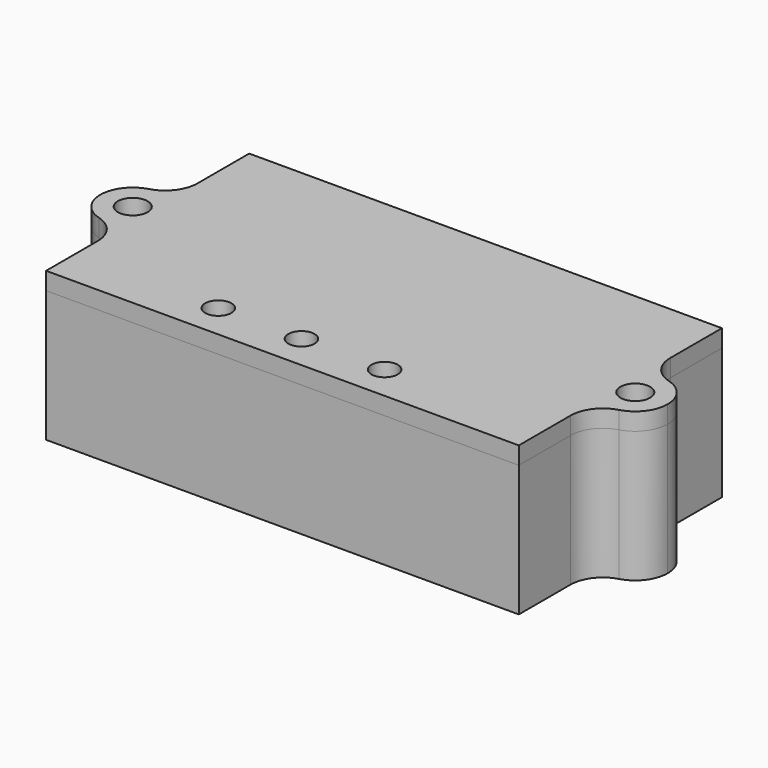
from build123d import *

# Parameters (mm, degrees)
SKETCH001_W                = 25
SKETCH001_H                = 12.5
PAD_DEPTH                  = 2
PAD001_DEPTH               = 15
SKETCH001_MIRRORED_2_W     = 25
SKETCH001_MIRRORED_2_H     = 12.5
PAD_MIRRORED_2_DEPTH       = 2
PAD001_MIRRORED_2_DEPTH    = 15
PAD002_DEPTH               = 2
PAD002_MIRRORED002_2_DEPTH = 2
SKETCH003_R                = 1.5
POCKET_DEPTH               = 5


with BuildPart() as casing:
    # Sketch001 → Pad (new body)
    with BuildSketch(Plane.XY):
        with Locations((12.5, 6.25)):
            Rectangle(SKETCH001_W, SKETCH001_H)
    pad = extrude(amount=PAD_DEPTH)

    # Sketch → Pad001 (join)
    with BuildSketch(Plane.XY):
        with BuildLine():
            Line((0.55, 12.5), (13.589013, 12.5))
            Line((13.589013, 11.5), (13.589013, 12.5))
            Line((14.689013, 11.5), (13.589013, 11.5))
            Line((14.689013, 12.5), (14.689013, 11.5))
            Line((14.689013, 12.5), (25, 12.5))
            Line((25, 12.5), (25, 0))
            Line((27, 0), (25, 0))
            ThreePointArc((30.4, 0), (28.7, 1.7), (27, 0))
            Line((30.4, 0), (32.4, 0))
            ThreePointArc((32.4, 0), (31.648728, 2.23495), (29.699999, 3.562303))
            ThreePointArc((27, 7.124605), (27.751271, 4.889656), (29.699999, 3.562303))
            Line((27, 14.5), (27, 7.124605))
            Line((0, 14.5), (27, 14.5))
            Line((0, 12.5), (0, 14.5))
            Line((0, 11.5), (0, 12.5))
            Line((0, 11.5), (0.55, 11.5))
            Line((0.55, 11.5), (0.55, 12.5))
        make_face()
    pad001 = extrude(amount=PAD001_DEPTH)

    # Sketch001 Mirrored 2 → Pad Mirrored 2 (add)
    with BuildSketch(Plane(origin=(0, 0, 0), x_dir=(-1, 0, 0), z_dir=(0, 0, -1))):
        with Locations((12.5, 6.25)):
            Rectangle(SKETCH001_MIRRORED_2_W, SKETCH001_MIRRORED_2_H)
    pad_mirrored_2 = extrude(amount=-PAD_MIRRORED_2_DEPTH)

    # Sketch Mirrored 2 → Pad001 Mirrored 2 (add)
    with BuildSketch(Plane(origin=(0, 0, 0), x_dir=(-1, 0, 0), z_dir=(0, 0, -1))):
        with BuildLine():
            Line((0.55, 12.5), (13.589013, 12.5))
            Line((13.589013, 11.5), (13.589013, 12.5))
            Line((14.689013, 11.5), (13.589013, 11.5))
            Line((14.689013, 12.5), (14.689013, 11.5))
            Line((14.689013, 12.5), (25, 12.5))
            Line((25, 12.5), (25, 0))
            Line((27, 0), (25, 0))
            ThreePointArc((30.4, 0), (28.7, 1.7), (27, 0))
            Line((30.4, 0), (32.4, 0))
            ThreePointArc((32.4, 0), (31.648728, 2.23495), (29.699999, 3.562303))
            ThreePointArc((27, 7.124605), (27.751271, 4.889656), (29.699999, 3.562303))
            Line((27, 14.5), (27, 7.124605))
            Line((0, 14.5), (27, 14.5))
            Line((0, 12.5), (0, 14.5))
            Line((0, 11.5), (0, 12.5))
            Line((0, 11.5), (0.55, 11.5))
            Line((0.55, 11.5), (0.55, 12.5))
        make_face()
    pad001_mirrored_2 = extrude(amount=-PAD001_MIRRORED_2_DEPTH)

    # Mirrored001: Pad, Pad001, Pad Mirrored 2, Pad001 Mirrored 2 across Sketch001 H_Axis
    add(pad.mirror(Plane.ZX))
    add(pad001.mirror(Plane.ZX))
    add(pad_mirrored_2.mirror(Plane.ZX))
    add(pad001_mirrored_2.mirror(Plane.ZX))


with BuildPart() as cup:
    # Sketch002 → Pad002 (new body)
    with BuildSketch(Plane.XY):
        with BuildLine():
            Line((0, 0), (27, 0))
            ThreePointArc((30.4, 0), (28.7, 1.7), (27, 0))
            Line((30.4, 0), (32.4, 0))
            ThreePointArc((32.4, 0), (31.648725, 2.234954), (29.69999, 3.562305))
            ThreePointArc((27, 7.124605), (27.751268, 4.88966), (29.69999, 3.562305))
            Line((27, 7.124605), (27, 14.5))
            Line((27, 14.5), (0, 14.5))
            Line((0, 14.5), (0, 0))
        make_face()
    pad002 = extrude(amount=PAD002_DEPTH)

    # Sketch002 Mirrored002 2 → Pad002 Mirrored002 2 (add)
    with BuildSketch(Plane(origin=(0, 0, 0), x_dir=(-1, 0, 0), z_dir=(0, 0, -1))):
        with BuildLine():
            Line((0, 0), (27, 0))
            ThreePointArc((30.4, 0), (28.7, 1.7), (27, 0))
            Line((30.4, 0), (32.4, 0))
            ThreePointArc((32.4, 0), (31.648725, 2.234954), (29.69999, 3.562305))
            ThreePointArc((27, 7.124605), (27.751268, 4.88966), (29.69999, 3.562305))
            Line((27, 7.124605), (27, 14.5))
            Line((27, 14.5), (0, 14.5))
            Line((0, 14.5), (0, 0))
        make_face()
    pad002_mirrored002_2 = extrude(amount=-PAD002_MIRRORED002_2_DEPTH)

    # Mirrored003: Pad002, Pad002 Mirrored002 2 across Sketch002 H_Axis
    add(pad002.mirror(Plane.ZX))
    add(pad002_mirrored002_2.mirror(Plane.ZX))

    # Sketch003 → Pocket (cut)
    with BuildSketch(Plane.XY):
        with Locations((-10.5, -10.537075)):
            Circle(SKETCH003_R)
        with Locations((-1, -10.537075)):
            Circle(SKETCH003_R)
        with Locations((8.5, -10.537075)):
            Circle(SKETCH003_R)
    extrude(amount=POCKET_DEPTH, mode=Mode.SUBTRACT)


with BuildPart() as cup_1:
    # Body001 placement: moved
    add(cup.part.moved(Location((0, 0, 15))))


solid = Compound([casing.part, cup_1.part])
